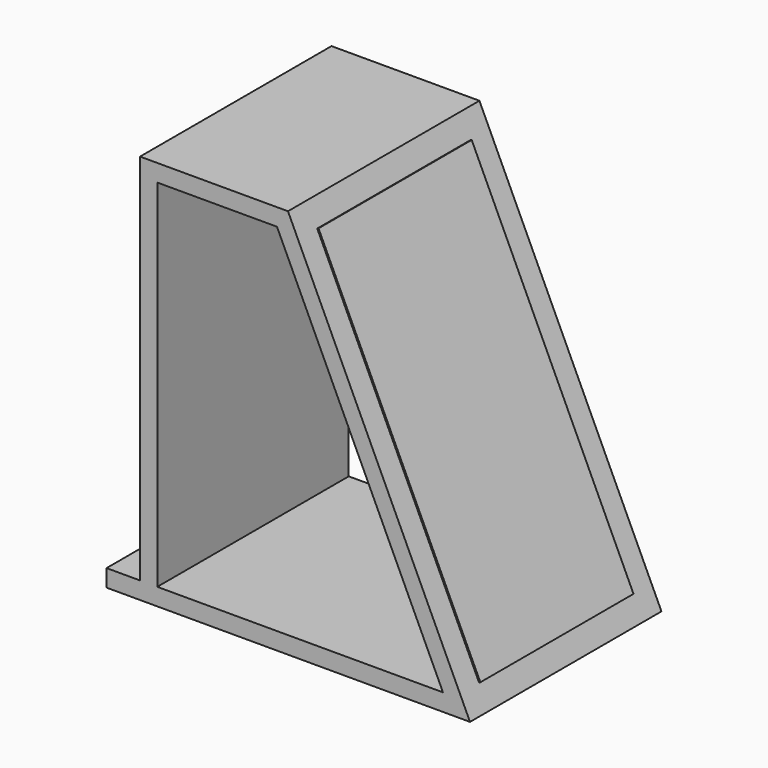
from build123d import *

# Parameters (mm, degrees)
F1_DEPTH = 250
F3_DEPTH = 250.001
F4_W     = 200
F4_H     = 400
F5_DEPTH = 1.5


with BuildPart() as f1:
    # F0 (on Front) → F1 (new body)
    with BuildSketch(Plane.XZ):
        Polygon((-153.1775129723, 18), (-153.1775129723, 0), (226.53011856, 0), (36.3519007767, 407.8385041665), (-118.1775129723, 407.8385041665), (-118.1775129723, 18), align=None)
    extrude(amount=F1_DEPTH)

    # F2 (on face) → F3 (cut, through all)
    with BuildSketch(Plane(origin=(0, 0, 0), x_dir=(-1, 0, 0), z_dir=(0, 1, 0))):
        Polygon((-198.2757781719, 18), (100.1775129723, 18), (100.1775129723, 389.8385041665), (-24.8846360822, 389.8385041665), align=None)
    extrude(amount=-F3_DEPTH, mode=Mode.SUBTRACT)

    # F4 (on face) → F5 (join)
    with BuildSketch(Plane(origin=(186.0704359956, 0, 86.766069261), x_dir=(0, 1, 0), z_dir=(0.906307787, 0, 0.4226182617))):
        with Locations((-125, 129.2642350622)):
            Rectangle(F4_W, F4_H)
    extrude(amount=F5_DEPTH)


solid = f1.part
